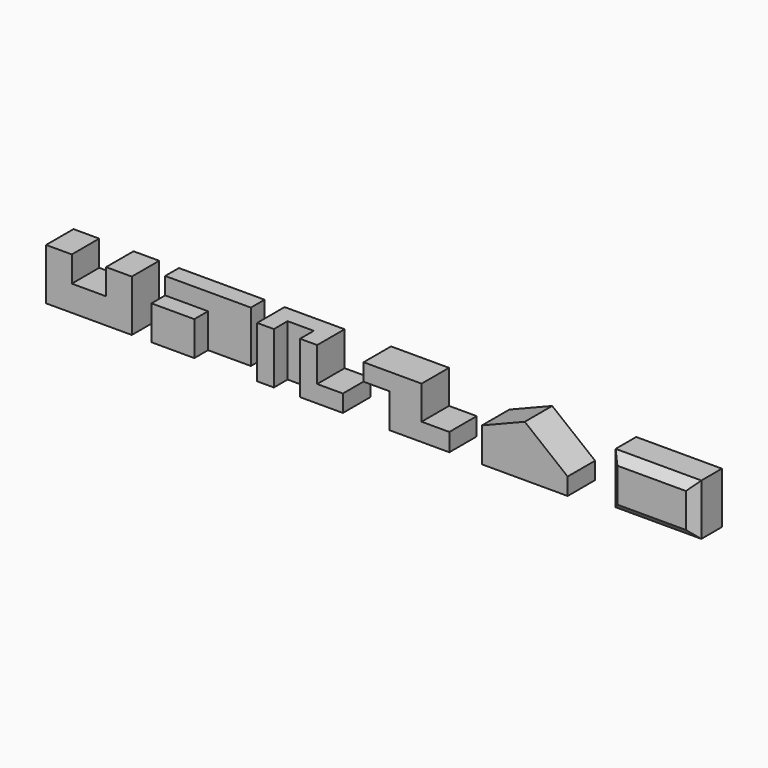
from build123d import *

# Parameters (mm, degrees)
F1_DEPTH  = 101.6
F2_W      = 254
F2_H      = 152.4
F3_DEPTH  = 101.6
F4_W      = 127
F4_H      = 50.8
F5_DEPTH  = 152.4
F7_W      = 127
F7_H      = 50.8
F8_DEPTH  = 50.8
F6_W      = 254
F6_H      = 152.4
F9_DEPTH  = 101.6
F10_W     = 76.2
F10_H     = 101.6
F11_DEPTH = 101.6
F12_W     = 77.5092818909
F12_H     = 152.4
F13_DEPTH = 50.8
F14_W     = 254
F14_H     = 152.4
F15_DEPTH = 101.6
F16_W     = 76.2
F16_H     = 101.6
F17_DEPTH = 101.6
F18_W     = 82.1068286896
F18_H     = 99.315268898
F19_DEPTH = 101.6
F20_W     = 254
F20_H     = 152.4
F21_DEPTH = 101.6
F23_DEPTH = 101.6
F25_DEPTH = 101.6
F26_W     = 254
F26_H     = 152.4
F27_DEPTH = 101.6
F28_SIZE  = 25.4


with BuildPart() as f1:
    # F0 (on Front) → F1 (new body)
    with BuildSketch(Plane.XZ):
        Polygon((0, 152.4), (0, 0), (254, 0), (254, 152.4), (177.8, 152.4), (177.8, 76.2), (76.2, 76.2), (76.2, 152.4), align=None)
    extrude(amount=-F1_DEPTH)


with BuildPart() as f3:
    # F2 (on face) → F3 (new body)
    with BuildSketch(Plane.XZ):
        with Locations((439.2663795948, 76.2)):
            Rectangle(F2_W, F2_H)
    extrude(amount=-F3_DEPTH)

    # F4 (on face) → F5 (cut)
    with BuildSketch(Plane.XY.offset(152.4)):
        with Locations((502.7663795948, 25.4)):
            Rectangle(F4_W, F4_H)
    extrude(amount=-F5_DEPTH, mode=Mode.SUBTRACT)

    # F7 (on face) → F8 (cut)
    with BuildSketch(Plane.XY.offset(152.4)):
        with Locations((375.7663795948, 25.4)):
            Rectangle(F7_W, F7_H)
    extrude(amount=-F8_DEPTH, mode=Mode.SUBTRACT)


with BuildPart() as f9:
    # F6 (on face) → F9 (new body)
    with BuildSketch(Plane.XZ):
        with Locations((752.5466659241, 76.2)):
            Rectangle(F6_W, F6_H)
    extrude(amount=-F9_DEPTH)

    # F10 (on face) → F11 (cut)
    with BuildSketch(Plane.XY.offset(152.4)):
        with Locations((841.4466659241, 50.8)):
            Rectangle(F10_W, F10_H)
    extrude(amount=-F11_DEPTH, mode=Mode.SUBTRACT)

    # F12 (on face) → F13 (cut)
    with BuildSketch(Plane.XZ):
        with Locations((713.7920249786, 76.2)):
            Rectangle(F12_W, F12_H)
    extrude(amount=-F13_DEPTH, mode=Mode.SUBTRACT)


with BuildPart() as f15:
    # F14 (on face) → F15 (new body)
    with BuildSketch(Plane.XZ):
        with Locations((1067.8858499527, 76.2)):
            Rectangle(F14_W, F14_H)
    extrude(amount=-F15_DEPTH)

    # F16 (on face) → F17 (cut)
    with BuildSketch(Plane.XZ):
        with Locations((978.9858499527, 50.8)):
            Rectangle(F16_W, F16_H)
    extrude(amount=-F17_DEPTH, mode=Mode.SUBTRACT)

    # F18 (on face) → F19 (cut)
    with BuildSketch(Plane.XZ):
        with Locations((1153.8324356079, 102.742365551)):
            Rectangle(F18_W, F18_H)
    extrude(amount=-F19_DEPTH, mode=Mode.SUBTRACT)


with BuildPart() as f21:
    # F20 (on face) → F21 (new body)
    with BuildSketch(Plane.XZ):
        with Locations((1418.5344781153, 76.2)):
            Rectangle(F20_W, F20_H)
    extrude(amount=-F21_DEPTH)

    # F22 (on face) → F23 (cut)
    with BuildSketch(Plane.XZ):
        Polygon((1291.5344781153, 152.4), (1291.5344781153, 101.6), (1418.5344781153, 152.4), align=None)
    extrude(amount=-F23_DEPTH, mode=Mode.SUBTRACT)

    # F24 (on face) → F25 (cut)
    with BuildSketch(Plane.XZ):
        Polygon((1418.5344781153, 152.4), (1545.5344781153, 50.8), (1545.5344781153, 152.4), align=None)
    extrude(amount=-F25_DEPTH, mode=Mode.SUBTRACT)


with BuildPart() as f27:
    # F26 (on face) → F27 (new body)
    with BuildSketch(Plane.XZ):
        with Locations((1794.4256044602, 76.2)):
            Rectangle(F26_W, F26_H)
    extrude(amount=-F27_DEPTH)

    # F28
    f28_edges = [f27.edges().sort_by_distance(p)[0] for p in [
        (1667.425604, 0, 76.2),
        (1794.425604, 0, 0),
        (1921.425604, 0, 76.2),
        (1794.425604, 0, 152.4),
    ]]
    chamfer(f28_edges, length=F28_SIZE)


solid = Compound([f1.part, f3.part, f9.part, f15.part, f21.part, f27.part])
